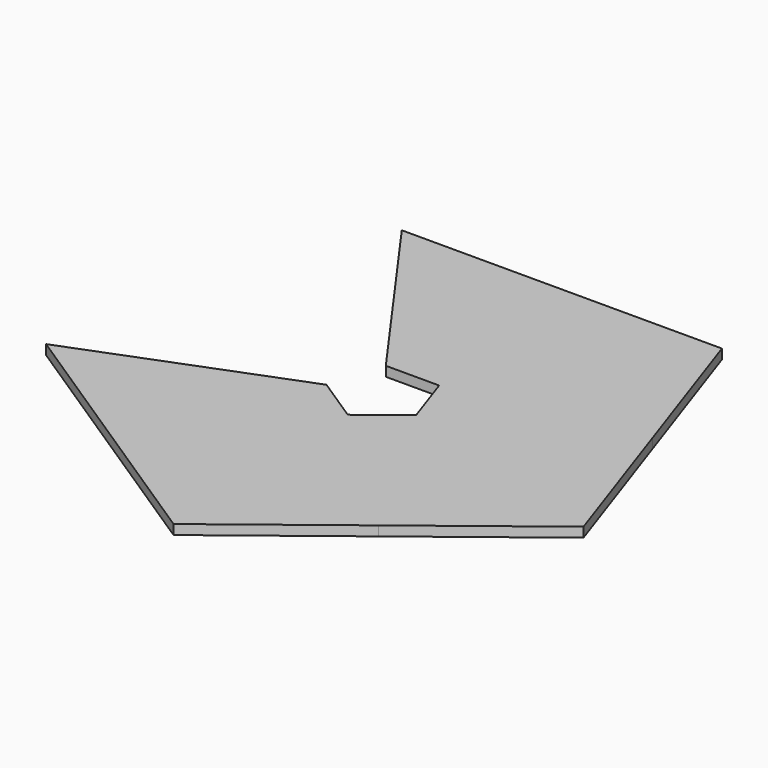
from build123d import *

# Parameters (mm, degrees)
F1_DEPTH = 2


with BuildPart() as f1:
    # F0 (on Top) → F1 (new body)
    with BuildSketch(Plane.XY):
        Polygon((54.405405, -23.932432), (9.067568, -10.405405), (0.381665, -17.154858), (2.289993, -64.429145), (28.347699, -44.180789), align=None)
        Polygon((2.289993, -64.429145), (0.381665, -17.154858), (-8.820001, -11.127475), (-52.920005, -28.264851), (-25.315006, -46.346998), align=None)
        Polygon((33, 38.5), (5.5, 0), (9.067568, -10.405405), (54.405405, -23.932432), (43.702703, 7.283784), align=None)
        Polygon((-33, 38.5), (-5.5, 0), (5.5, 0), (33, 38.5), (0, 38.5), align=None)
    extrude(amount=F1_DEPTH)


solid = f1.part
